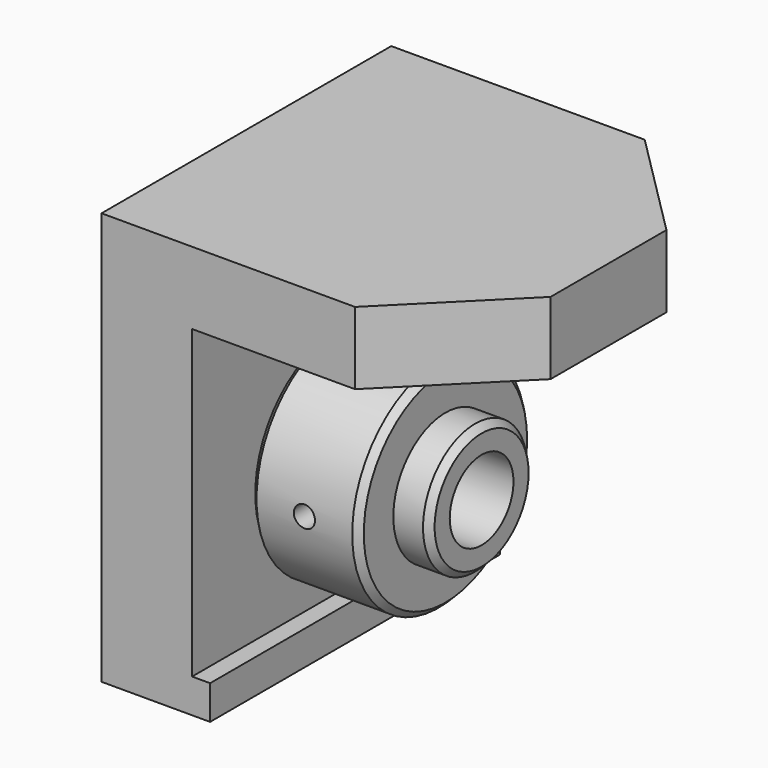
from build123d import *

# Parameters (mm, degrees)
F0_R      = 29.972
F1_DEPTH  = 29.972
F2_R      = 17.9959
F3_DEPTH  = 9.9822
F5_D      = 21.9964
F6_SIZE   = 1.778
F7_SIZE   = 1.778
F14_D     = 5.842
F14_DEPTH = 9.9822
F14_START = 0.1680766
F14_TIP   = 1.7551138682
F15_D     = 5.842
F15_DEPTH = 9.9822
F15_START = 0.1680766
F15_TIP   = 1.7551138682
F18_D     = 5.842
F18_DEPTH = 9.9822
F18_START = 0.1680766
F18_TIP   = 1.7551138682
F19_D     = 5.842
F19_DEPTH = 9.9822
F19_START = 0.1680766
F19_TIP   = 1.7551138682
F20_SIZE  = 1.778
F22_DEPTH = 50
F23_SIZE  = 30
F24_SIZE  = 30


with BuildPart() as f1:
    # F0 (on Right) → F1 (new body)
    with BuildSketch(Plane.YZ):
        Circle(F0_R)
    extrude(amount=F1_DEPTH)

    # F2 (on face) → F3 (join)
    with BuildSketch(Plane.YZ.offset(29.972)):
        Circle(F2_R)
    extrude(amount=F3_DEPTH)

    # F5 (through all)
    with Locations(Plane.YZ.offset(39.9542)):
        with Locations((0, 0)):
            Hole(F5_D / 2)

    # F6
    f6_edges = [f1.edges().sort_by_distance(p)[0] for p in [
        (0, -29.972, 0),
    ]]
    chamfer(f6_edges, length=F6_SIZE)

    # F7
    f7_edges = [f1.edges().sort_by_distance(p)[0] for p in [
        (29.972, -29.972, 0),
    ]]
    chamfer(f7_edges, length=F7_SIZE)

    # F14
    # its depths count from where the whole tool has entered the part; down to there all is cleared
    with Locations(Plane(origin=(0, 29.9974, 0), x_dir=(1, 0, 0), z_dir=(0, 1, 0)).offset(-F14_START)):
        with Locations((14.986, 0)):
            Hole(F14_D / 2, depth=F14_DEPTH)
            with Locations((0, 0, -(F14_DEPTH + F14_TIP / 2))):  # 118° drill point
                Cone(0, F14_D / 2, F14_TIP, mode=Mode.SUBTRACT)

    # F15
    # its depths count from where the whole tool has entered the part; down to there all is cleared
    with Locations(Plane.XZ.offset(29.9974).offset(-F15_START)):
        with Locations((14.986, 0)):
            Hole(F15_D / 2, depth=F15_DEPTH)
            with Locations((0, 0, -(F15_DEPTH + F15_TIP / 2))):  # 118° drill point
                Cone(0, F15_D / 2, F15_TIP, mode=Mode.SUBTRACT)

    # F18
    # its depths count from where the whole tool has entered the part; down to there all is cleared
    with Locations(Plane(origin=(0, 0, -29.9974), x_dir=(1, 0, 0), z_dir=(0, 0, -1)).offset(-F18_START)):
        with Locations((14.986, 0)):
            Hole(F18_D / 2, depth=F18_DEPTH)
            with Locations((0, 0, -(F18_DEPTH + F18_TIP / 2))):  # 118° drill point
                Cone(0, F18_D / 2, F18_TIP, mode=Mode.SUBTRACT)

    # F19
    # its depths count from where the whole tool has entered the part; down to there all is cleared
    with Locations(Plane.XY.offset(29.9974).offset(-F19_START)):
        with Locations((14.986, 0)):
            Hole(F19_D / 2, depth=F19_DEPTH)
            with Locations((0, 0, -(F19_DEPTH + F19_TIP / 2))):  # 118° drill point
                Cone(0, F19_D / 2, F19_TIP, mode=Mode.SUBTRACT)

    # F20
    f20_edges = [f1.edges().sort_by_distance(p)[0] for p in [
        (39.9542, -17.9959, 0),
    ]]
    chamfer(f20_edges, length=F20_SIZE)

    # F21 (on Front) → F22 (join, symmetric)
    with BuildSketch(Plane.XZ):
        Polygon((-25, -45), (0, -45), (4.9744802527, -45), (4.9744802527, -35.5912335217), (0, -35.5912335217), (0, 0), (0, 48.9084279899), (75, 48.9084279899), (75, 68.9084279899), (-25, 68.9084279899), align=None)
    extrude(amount=F22_DEPTH, both=True)

    # F23
    f23_edges = [f1.edges().sort_by_distance(p)[0] for p in [
        (75, -50, 58.908428),
    ]]
    chamfer(f23_edges, length=F23_SIZE)

    # F24
    f24_edges = [f1.edges().sort_by_distance(p)[0] for p in [
        (75, 50, 58.908428),
    ]]
    chamfer(f24_edges, length=F24_SIZE)


solid = f1.part
